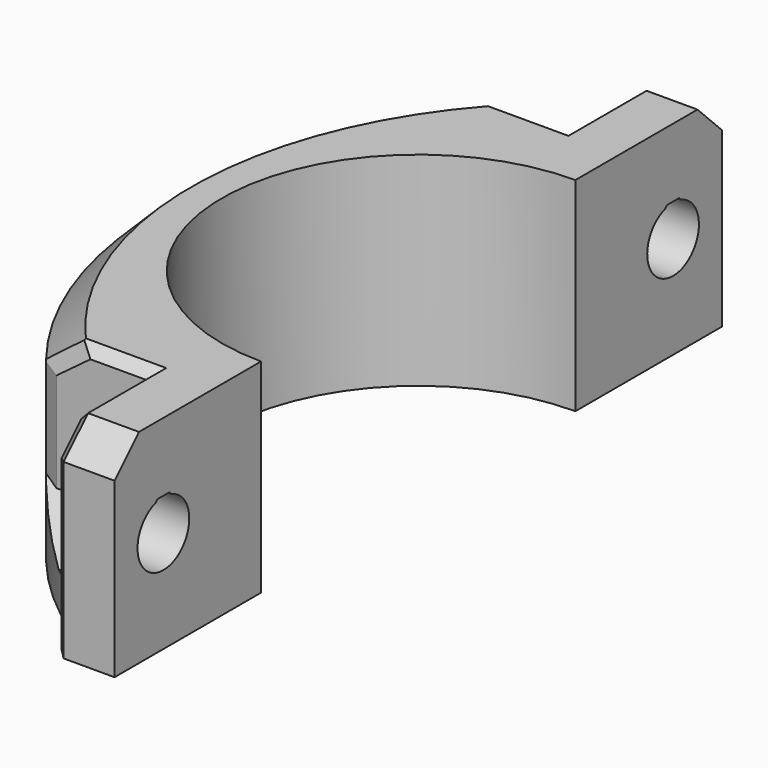
from build123d import *

# Parameters (mm, degrees)
PAD008_DEPTH    = 10
SKETCH029_R     = 3.175
POCKET018_DEPTH = 187.8463782794
POCKET019_DEPTH = 187.8463789695
POCKET020_DEPTH = 19
PAD009_DEPTH    = 20
CHAMFER007_SIZE = 3
CHAMFER008_SIZE = 1
FILLET002_R     = 3


with BuildPart() as part:
    # Sketch028 → Pad008 (new body, symmetric)
    with BuildSketch(Plane.XY):
        with BuildLine():
            ThreePointArc((0, 19.3), (-19.3, 0), (0, -19.3))
            Line((0, -19.3), (0, -37.3))
            ThreePointArc((0, 37.3), (-25.3, 0), (0, -37.3))
            Line((0, 37.3), (0, 19.3))
        make_face()
    extrude(amount=PAD008_DEPTH, both=True)

    # Sketch029 (on Face3 of Pad008) → Pocket018 (cut, through all)
    with BuildSketch(Plane.YZ):
        with Locations((-31.3, 0)):
            Circle(SKETCH029_R)
    pocket018 = extrude(amount=-POCKET018_DEPTH, mode=Mode.SUBTRACT)

    # Mirrored018: Pocket018 across Sketch029 V_Axis
    add(pocket018.mirror(Plane(origin=(0, 0, 0), x_dir=(1, 0, 0), z_dir=(0, 1, 0))), mode=Mode.SUBTRACT)

    # Sketch030 (on Face7 of Mirrored018) → Pocket019 (cut, through all)
    with BuildSketch(Plane.YZ):
        Polygon((-32.3, 3.0134075396), (-30.3, 3.0134075396), (-30.55, 3.2634075396), (-32.05, 3.2634075396), align=None)
    pocket019 = extrude(amount=-POCKET019_DEPTH, mode=Mode.SUBTRACT)

    # Mirrored019: Pocket019 across Sketch030 V_Axis
    add(pocket019.mirror(Plane(origin=(0, 0, 0), x_dir=(1, 0, 0), z_dir=(0, 1, 0))), mode=Mode.SUBTRACT)

    # Sketch031 (on DatumPlane) → Pocket020 (cut)
    with BuildSketch(Plane(origin=(-25, 0, 0), x_dir=(0, -1, 0), z_dir=(-1, 0, 0))):
        Polygon((25.7, -3.2331615075), (25.7, 10), (37.3, 10), (37.3, -6.4663230149), (31.3, -6.4663230149), align=None)
    pocket020 = extrude(amount=-POCKET020_DEPTH, mode=Mode.SUBTRACT)

    # Mirrored020: Pocket020 across Sketch031 V_Axis
    add(pocket020.mirror(Plane(origin=(-25, 0, 0), x_dir=(-1, 0, 0), z_dir=(0, -1, 0))), mode=Mode.SUBTRACT)

    # Sketch032 (on Face4 of Mirrored020) → Pad009 (join)
    with BuildSketch(Plane.XY.offset(10)):
        Polygon((0, -37.3), (-6, -37.3), (-6, -34.3094710302), align=None)
    pad009 = extrude(amount=-PAD009_DEPTH)

    # Mirrored021: Pad009 across Sketch032 H_Axis
    add(pad009.mirror(Plane(origin=(0, 0, 10), x_dir=(0, 0, 1), z_dir=(0, 1, 0))))

    # Chamfer007
    chamfer007_edges = [part.edges().sort_by_distance(p)[0] for p in [
        (-3, -37.3, 10),
        (-25.3, 0, 10),
        (-3, 37.3, 10),
    ]]
    chamfer(chamfer007_edges, length=CHAMFER007_SIZE)

    # Chamfer008
    chamfer008_edges = [part.edges().sort_by_distance(p)[0] for p in [
        (-6, -37.3, -1.5),
        (-6, -35.8, 8.5),
        (-6, -30, 10),
        (-8.987185, -25.7, 10),
        (-13.996133, -25.7, 8.514904),
        (-15.995669, -25.7, 1.883419),
        (-15.995669, 25.7, 1.883419),
        (-13.996133, 25.7, 8.514904),
        (-8.987185, 25.7, 10),
        (-6, 30, 10),
        (-6, 35.8, 8.5),
        (-6, 37.3, -1.5),
    ]]
    chamfer(chamfer008_edges, length=CHAMFER008_SIZE)

    # Fillet002
    fillet002_edges = [part.edges().sort_by_distance(p)[0] for p in [
        (-6, 34.309471, -8.233162),
        (-6, -34.309471, -8.233162),
    ]]
    fillet(fillet002_edges, radius=FILLET002_R)


solid = part.part
